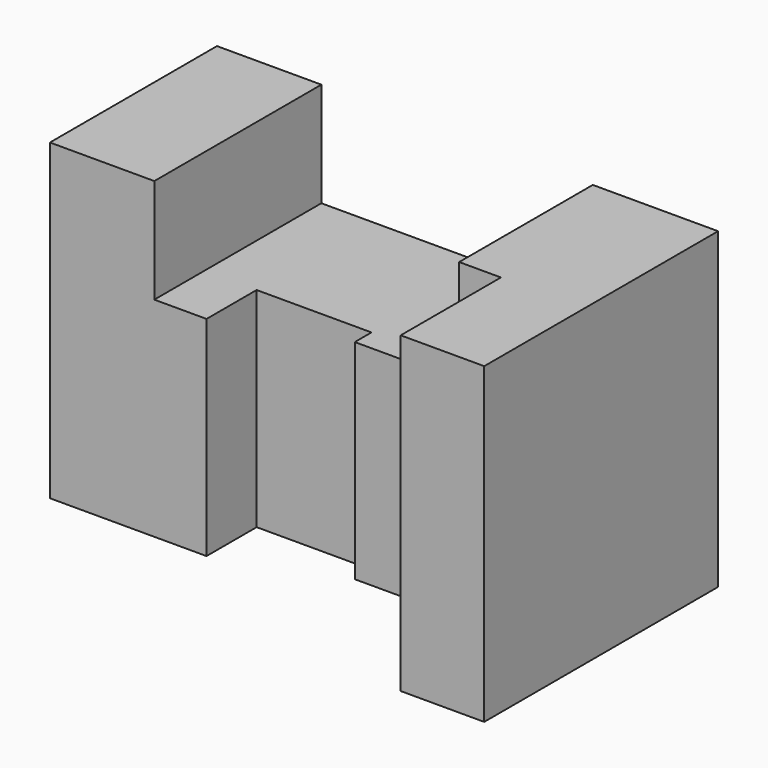
from build123d import *

# Parameters (mm, degrees)
F1_DEPTH = 50
F0_W     = 25
F0_H     = 50
F0_W_2   = 10
F0_H_2   = 40
F2_DEPTH = 75


with BuildPart() as f1:
    # F0 (on Top) → F1 (new body)
    with BuildSketch(Plane.XY):
        Polygon((27.5, 0), (-37.5, 0), (-37.5, -50), (-25, -50), (-25, -35), (2.5, -35), (2.5, -40), (27.5, -40), align=None)
    extrude(amount=F1_DEPTH)

    # F0 (on Top) → F2 (join)
    with BuildSketch(Plane.XY):
        with Locations((-50, -25)):
            Rectangle(F0_W, F0_H)
        with Locations((32.5, -20)):
            Rectangle(F0_W_2, F0_H_2)
        Polygon((57.5, 0), (37.5, 0), (37.5, -40), (37.5, -70), (57.5, -70), align=None)
    extrude(amount=F2_DEPTH)


solid = f1.part
